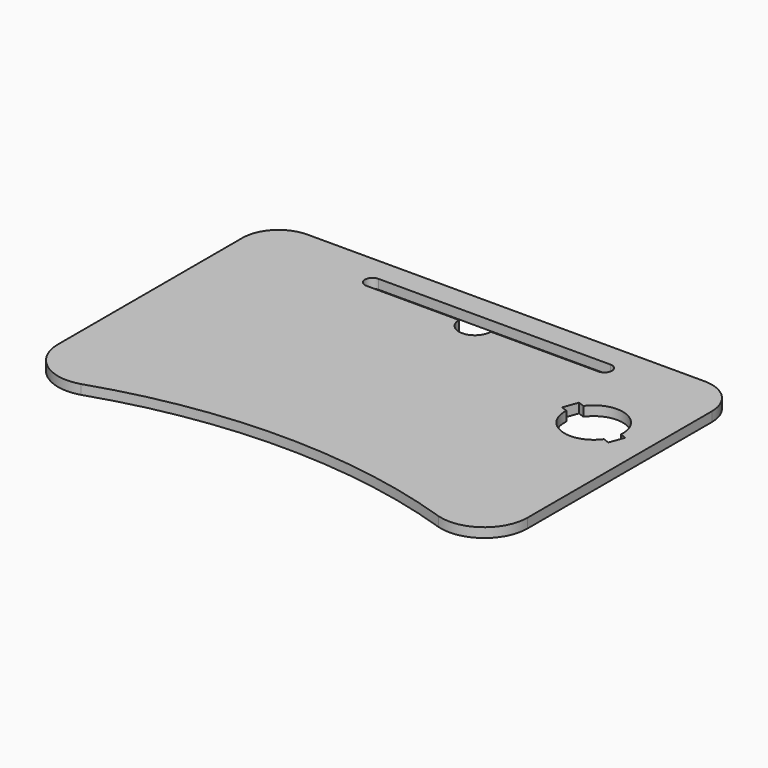
from build123d import *

# Parameters (mm, degrees)
PAD_DEPTH       = 12
POCKET_DEPTH    = 12
POCKET001_DEPTH = 12


with BuildPart() as part:
    # Sketch → Pad (new body)
    with BuildSketch(Plane.XY):
        with BuildLine():
            Line((-250, 0), (250, 0))
            ThreePointArc((295.5, -45.5), (282.173358544, -13.326641456), (250, 0))
            Line((295.5, -45.5), (295.5, -335.5))
            ThreePointArc((225, -387.5984644687), (273.3901991349, -379.3306399679), (295.5, -335.5))
            ThreePointArc((225, -387.5984644687), (0, -351), (-225, -387.5984644687))
            ThreePointArc((-295.5, -335.5), (-273.3901991349, -379.3306399679), (-225, -387.5984644687))
            Line((-295.5, -335.5), (-295.5, -45.5))
            ThreePointArc((-250, 0), (-282.173358544, -13.326641456), (-295.5, -45.5))
        make_face()
    extrude(amount=-PAD_DEPTH)

    # Sketch001 → Pocket (cut)
    with BuildSketch(Plane.XY):
        with BuildLine():
            ThreePointArc((-136.5, -30), (-146, -39.5), (-136.5, -49))
            Line((-136.5, -49), (-20, -49))
            ThreePointArc((-20, -49), (0, -69), (20, -49))
            Line((155.5000159433, -49), (20, -49))
            ThreePointArc((155.5000159433, -49), (165, -39.4999920284), (155.5, -30))
            Line((155.5, -30), (-136.5, -30))
        make_face()
    extrude(amount=-POCKET_DEPTH, mode=Mode.SUBTRACT)

    # Sketch002 → Pocket001 (cut)
    with BuildSketch(Plane.XY):
        with BuildLine():
            ThreePointArc((256.3808583259, -139.7068088046), (232.3192402672, -102.2162961861), (189.7885344689, -115.4691850901))
            Line((189.7885344689, -115.4691850901), (181.973144238, -112.6246156768))
            Line((175.3037514432, -130.9486217822), (181.973144238, -112.6246156768))
            Line((175.3037514432, -130.9486217822), (183.1191416741, -133.7931911954))
            ThreePointArc((183.1191416741, -133.7931911954), (207.1807597328, -171.2837038139), (249.7114655311, -158.0308149099))
            Line((257.526855762, -160.8753843232), (249.7114655311, -158.0308149099))
            Line((264.1962485568, -142.5513782178), (257.526855762, -160.8753843232))
            Line((256.3808583259, -139.7068088046), (264.1962485568, -142.5513782178))
        make_face()
    extrude(amount=-POCKET001_DEPTH, mode=Mode.SUBTRACT)


solid = part.part
